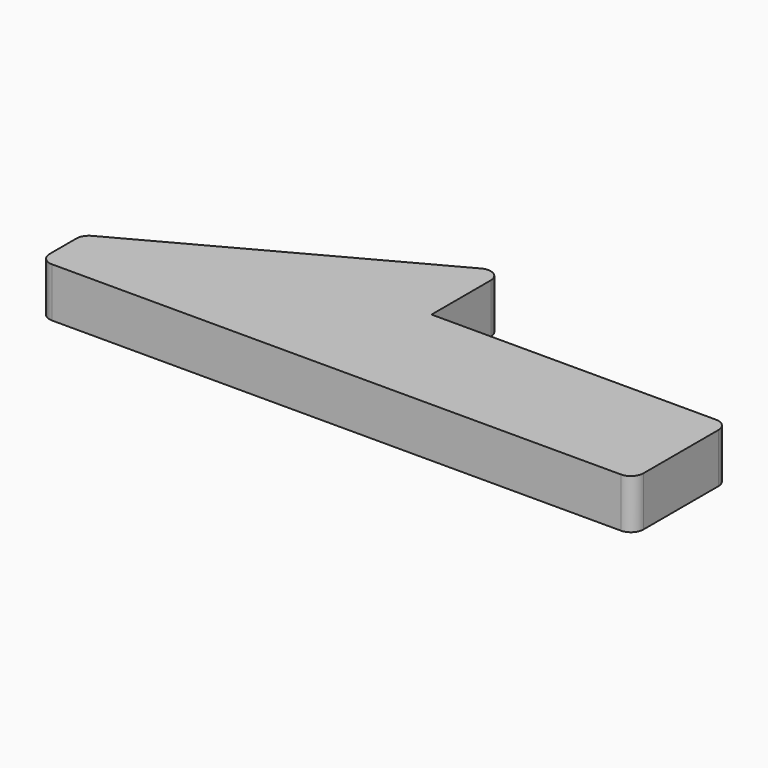
from build123d import *

# Parameters (mm, degrees)
F1_DEPTH = 6.35
F2_R     = 1.6002


with BuildPart() as f1:
    # F0 (on Top) → F1 (new body)
    with BuildSketch(Plane.XY):
        Polygon((-60.581866, 0), (0, 0), (15.618134, 0), (15.618134, 15.24), (-22.481866, 15.24), (-22.481866, 27.432), (-60.581866, 6.858), align=None)
    extrude(amount=F1_DEPTH)

    # F2
    f2_edges = [f1.edges().sort_by_distance(p)[0] for p in [
        (-60.581866, 6.858, 3.175),
        (-60.581866, 0, 3.175),
        (-22.481866, 27.432, 3.175),
        (15.618134, 15.24, 3.175),
        (15.618134, 0, 3.175),
    ]]
    fillet(f2_edges, radius=F2_R)


solid = f1.part
